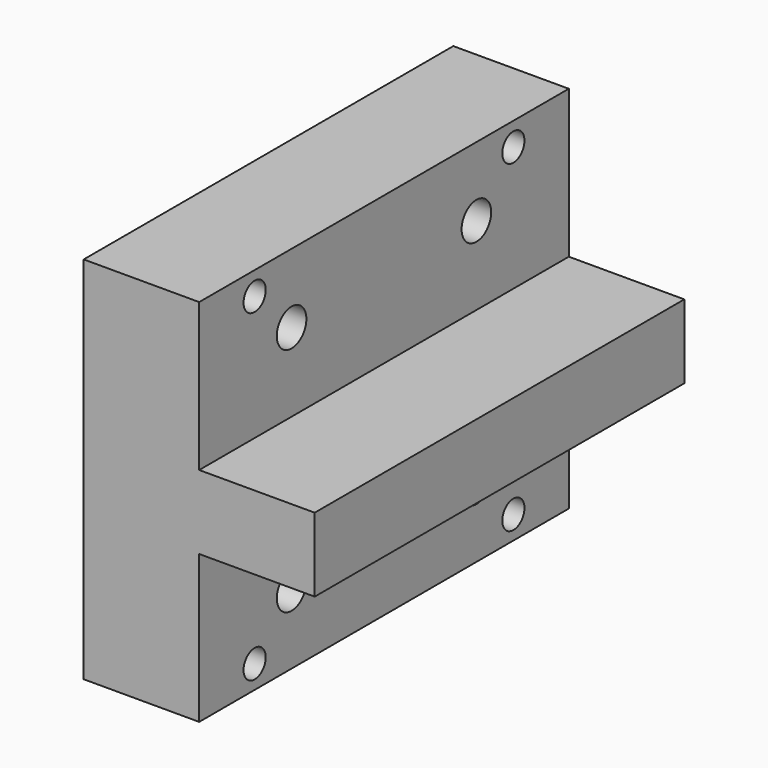
from build123d import *

# Parameters (mm, degrees)
F1_DEPTH = 100
F2_R     = 4
F2_R_2   = 3
F3_DEPTH = 100


with BuildPart() as f1:
    # F0 (on Front) → F1 (new body)
    with BuildSketch(Plane.XZ):
        Polygon((5.189254, 40), (5.189254, 0), (5.189254, -40), (30.189254, -40), (30.189254, -8), (55.189254, -8), (55.189254, 8), (30.189254, 8), (30.189254, 40), align=None)
    extrude(amount=F1_DEPTH)

    # F2 (on face) → F3 (cut)
    with BuildSketch(Plane(origin=(5.189254, 0, 0), x_dir=(0, -1, 0), z_dir=(-1, 0, 0))):
        with Locations((25, 25)):
            Circle(F2_R)
        with Locations((75, 25)):
            Circle(F2_R)
        with Locations((25, -25)):
            Circle(F2_R)
        with Locations((75, -25)):
            Circle(F2_R)
        with Locations((15, 35)):
            Circle(F2_R_2)
        with Locations((85, 35)):
            Circle(F2_R_2)
        with Locations((15, -35)):
            Circle(F2_R_2)
        with Locations((85, -35)):
            Circle(F2_R_2)
    extrude(amount=-F3_DEPTH, mode=Mode.SUBTRACT)


solid = f1.part
